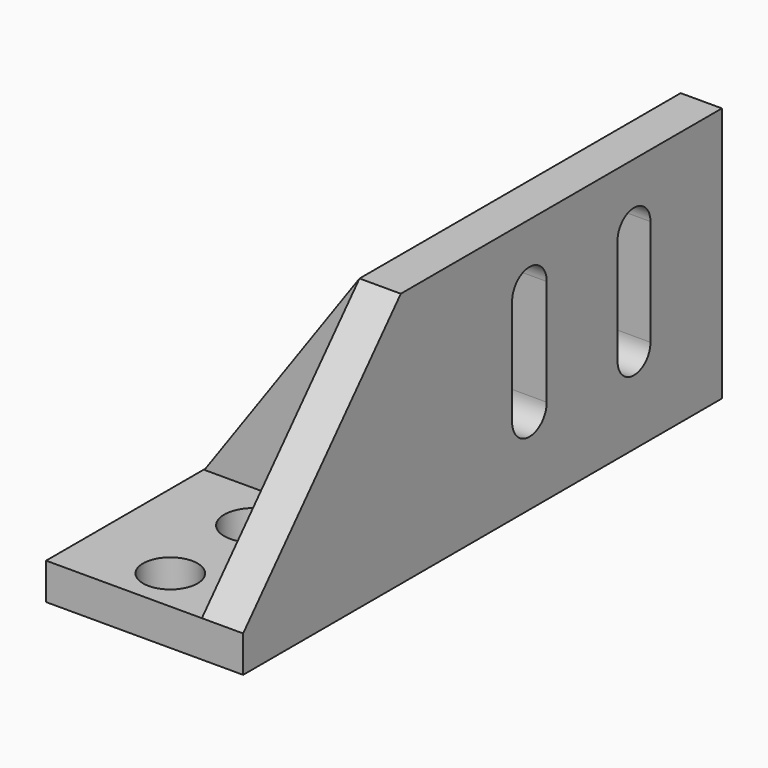
from build123d import *

# Parameters (mm, degrees)
F0_W      = 54
F0_H      = 54
F1_DEPTH  = 10
F2_DEPTH  = 110
F3_W      = 11.3069303334
F3_H      = 164
F4_DEPTH  = 60
F6_DEPTH  = 25
F8_W      = 44.0042559057
F8_H      = 7.8505566344
F9_DEPTH  = 60
F11_DEPTH = 25
F12_R     = 8.0330469699
F12_R_2   = 7.4577604213
F13_DEPTH = 25
F14_W     = 11.2831443548
F14_H     = 29.1211009026
F14_W_2   = 11.847294867
F15_DEPTH = 25
F17_DEPTH = 25


with BuildPart() as f1:
    # F0 (on Top) → F1 (new body)
    with BuildSketch(Plane.XY):
        with Locations((-27, -27)):
            Rectangle(F0_W, F0_H)
    extrude(amount=F1_DEPTH)

    # F2 (add): a face of the model
    f2_faces = [f1.faces().sort_by_distance(p)[0] for p in [
        (-27, 0, 5),
    ]]
    extrude(f2_faces, amount=F2_DEPTH)

    # F3 (on face) → F4 (join)
    with BuildSketch(Plane.XY.offset(10)):
        with Locations((-5.6534651667, 28)):
            Rectangle(F3_W, F3_H)
    extrude(amount=F4_DEPTH)

    # F5 (on face) → F6 (cut)
    with BuildSketch(Plane(origin=(-11.3069303334, 0, 0), x_dir=(0, -1, 0), z_dir=(-1, 0, 0))):
        Polygon((54, 70), (0, 70), (54, 10), align=None)
    extrude(amount=-F6_DEPTH, mode=Mode.SUBTRACT)

    # F8 (on face) → F9 (join)
    with BuildSketch(Plane.XY.offset(10)):
        with Locations((-31.8002207205, 3.9252783172)):
            Rectangle(F8_W, F8_H)
    extrude(amount=F9_DEPTH)

    # F10 (on face) → F11 (cut)
    with BuildSketch(Plane.XZ):
        Polygon((-53.8023486733, 10), (-11.3069303334, 70), (-53.8023486733, 70), align=None)
    extrude(amount=-F11_DEPTH, mode=Mode.SUBTRACT)

    # F12 (on face) → F13 (cut)
    with BuildSketch(Plane.XY.offset(10)):
        with Locations((-29.5435916632, -13.4916221723)):
            Circle(F12_R)
        with Locations((-29.5435916632, -42.014349252)):
            Circle(F12_R_2)
    extrude(amount=-F13_DEPTH, mode=Mode.SUBTRACT)

    # F14 (on face) → F15 (cut)
    with BuildSketch(Plane(origin=(-11.3069303334, 0, 0), x_dir=(0, -1, 0), z_dir=(-1, 0, 0))):
        with BuildLine():
            ThreePointArc((-74.2469504476, 52.6258610189), (-79.888522625, 58.2674331963), (-85.5300948024, 52.6258610189))
            Line((-85.5300948024, 52.6258610189), (-74.2469504476, 52.6258610189))
        make_face()
        with Locations((-79.888522625, 38.0653105676)):
            Rectangle(F14_W, F14_H)
        with BuildLine():
            Line((-74.2469504476, 23.5047601163), (-85.5300948024, 23.5047601163))
            ThreePointArc((-85.5300948024, 23.5047601163), (-79.888522625, 17.8631879389), (-74.2469504476, 23.5047601163))
        make_face()
        with BuildLine():
            ThreePointArc((-38.1409041584, 52.6258610189), (-44.0645515919, 58.5495084524), (-49.9881990254, 52.6258610189))
            Line((-49.9881990254, 52.6258610189), (-38.1409041584, 52.6258610189))
        make_face()
        with Locations((-44.0645515919, 38.0653105676)):
            Rectangle(F14_W_2, F14_H)
        with BuildLine():
            Line((-38.1409041584, 23.5047601163), (-49.9881990254, 23.5047601163))
            ThreePointArc((-49.9881990254, 23.5047601163), (-44.0645515919, 17.5811126828), (-38.1409041584, 23.5047601163))
        make_face()
    extrude(amount=-F15_DEPTH, mode=Mode.SUBTRACT)

    # F16 (on face) → F17 (cut)
    with BuildSketch(Plane.XY.offset(10)):
        Polygon((-54, 8.017349681), (-28.2367646881, 110), (-54, 110), align=None)
    extrude(amount=-F17_DEPTH, mode=Mode.SUBTRACT)


solid = f1.part
